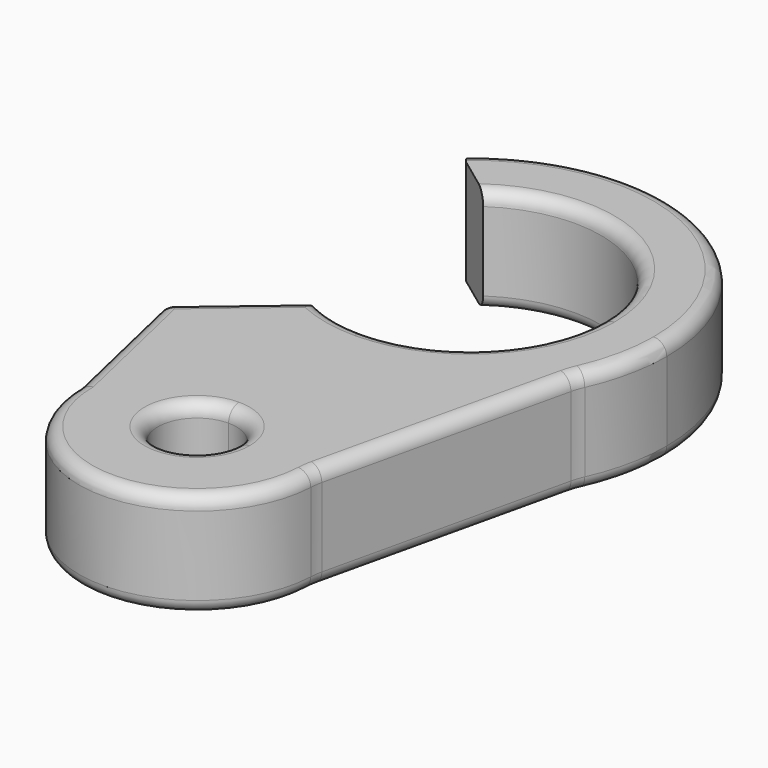
from build123d import *

# Parameters (mm, degrees)
F1_DEPTH = 8
F2_R     = 5
F3_R     = 1


with BuildPart() as f1:
    # F0 (on Top) → F1 (new body)
    with BuildSketch(Plane.XY):
        with BuildLine():
            ThreePointArc((-5.6145125027, 8.2750981479), (4.6826741811, 8.8358679547), (10, 0))
            Line((10, 0), (15, 0))
            ThreePointArc((15, 0), (6.2469492559, 13.6372880366), (-9.7967499992, 11.3588595137))
            Line((-9.7967499992, 11.3588595137), (-5.6145125027, 8.2750981479))
        make_face()
        with BuildLine():
            Line((15, 0), (10, 0))
            ThreePointArc((10, 0), (7.0710678119, -7.0710678119), (0, -10))
            Line((0, -10), (0, -15))
            ThreePointArc((0, -15), (7.9499841, -12.7199745601), (13.4831460674, -6.5730337079))
            Line((13.4831460674, -6.5730337079), (15, 0))
        make_face()
        with BuildLine():
            ThreePointArc((13.4831460674, -6.5730337079), (7.9499841, -12.7199745601), (0, -15))
            Line((0, -15), (0, -17))
            ThreePointArc((0, -17), (6.3639610307, -19.6360389693), (9, -26))
            Line((9, -26), (13.4831460674, -6.5730337079))
        make_face()
        with BuildLine():
            ThreePointArc((9, -26), (6.3639610307, -19.6360389693), (0, -17))
            ThreePointArc((0, -17), (-6.3639610307, -19.6360389693), (-9, -26))
            ThreePointArc((-9, -26), (0, -35), (9, -26))
        make_face()
        with BuildLine():
            ThreePointArc((3, -26), (-2.1213203436, -28.1213203436), (0, -23))
            ThreePointArc((0, -23), (2.1213203436, -23.8786796564), (3, -26))
        make_face(mode=Mode.SUBTRACT)
        with BuildLine():
            Line((0, -17), (0, -15))
            ThreePointArc((0, -15), (-4.5820343187, -14.2830305433), (-8.7260448167, -12.2006615336))
            Line((-8.7260448167, -12.2006615336), (-11.6198164078, -14.6474622328))
            Line((-11.6198164078, -14.6474622328), (-9, -26))
            ThreePointArc((-9, -26), (-6.3639610307, -19.6360389693), (0, -17))
        make_face()
        with BuildLine():
            Line((0, -15), (0, -10))
            ThreePointArc((0, -10), (-2.434154238, -9.6992212649), (-4.7218801094, -8.8149786292))
            Line((-4.7218801094, -8.8149786292), (-8.7260448167, -12.2006615336))
            ThreePointArc((-8.7260448167, -12.2006615336), (-4.5820343187, -14.2830305433), (0, -15))
        make_face()
        with BuildLine():
            ThreePointArc((13.4831460674, -6.5730337079), (14.6158679354, -3.3728926005), (15, 0))
            Line((15, 0), (13.4831460674, -6.5730337079))
        make_face()
    extrude(amount=F1_DEPTH)

    # F2
    f2_edges = [f1.edges().sort_by_distance(p)[0] for p in [
        (13.483146, -6.573034, 4),
        (9, -26, 4),
    ]]
    fillet(f2_edges, radius=F2_R)

    # F3
    f3_edges = [f1.edges().sort_by_distance(p)[0] for p in [
        (-3, -26, 0),
        (-3, -26, 8),
        (9.986387, 0.521599, 8),
        (9.986387, 0.521599, 0),
        (-8.170848, -11.73122, 8),
        (-8.170848, -11.73122, 0),
        (-11.619816, -14.647462, 4),
        (-10.309908, -20.323731, 8),
        (-10.309908, -20.323731, 0),
        (-9.79675, 11.35886, 4),
        (8.971222, 12.02153, 0),
        (8.971222, 12.02153, 8),
    ]]
    fillet(f3_edges, radius=F3_R)


solid = f1.part
